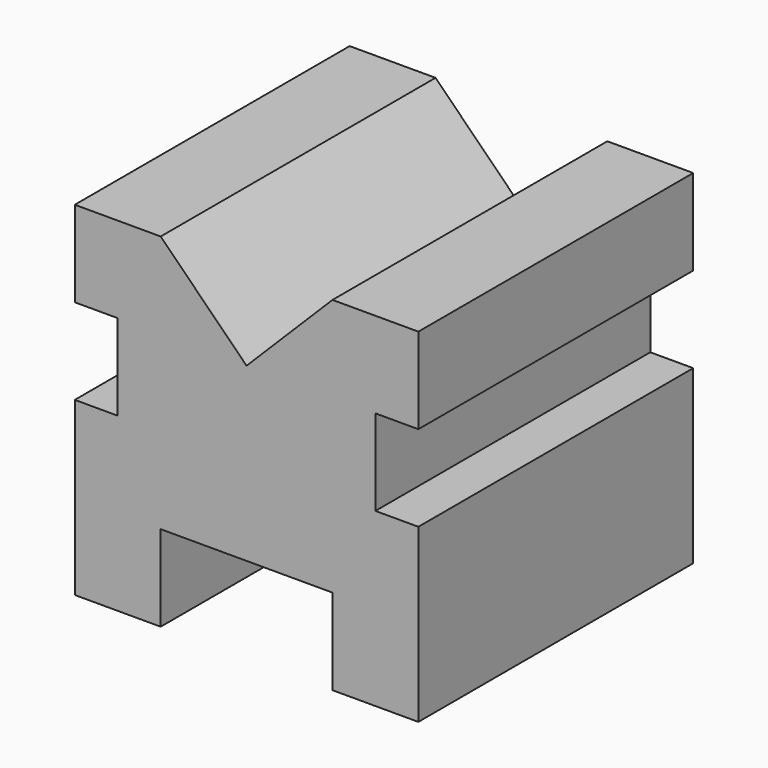
from build123d import *

# Parameters (mm, degrees)
F1_DEPTH = 101.6


with BuildPart() as f1:
    # F0 (on Front) → F1 (new body)
    with BuildSketch(Plane.XZ):
        Polygon((-38.1, 0), (-50.8, 0), (-50.8, -50.8), (-25.4, -50.8), (-25.4, -25.4), (25.4, -25.4), (25.4, -50.8), (50.8, -50.8), (50.8, 0), (38.1, 0), (38.1, 25.4), (50.8, 25.4), (50.8, 50.8), (25.4, 50.8), (0, 25.4), (-25.396164, 50.796164), (-50.8, 50.796164), (-50.8, 25.4), (-38.1, 25.4), align=None)
    extrude(amount=F1_DEPTH)


solid = f1.part
